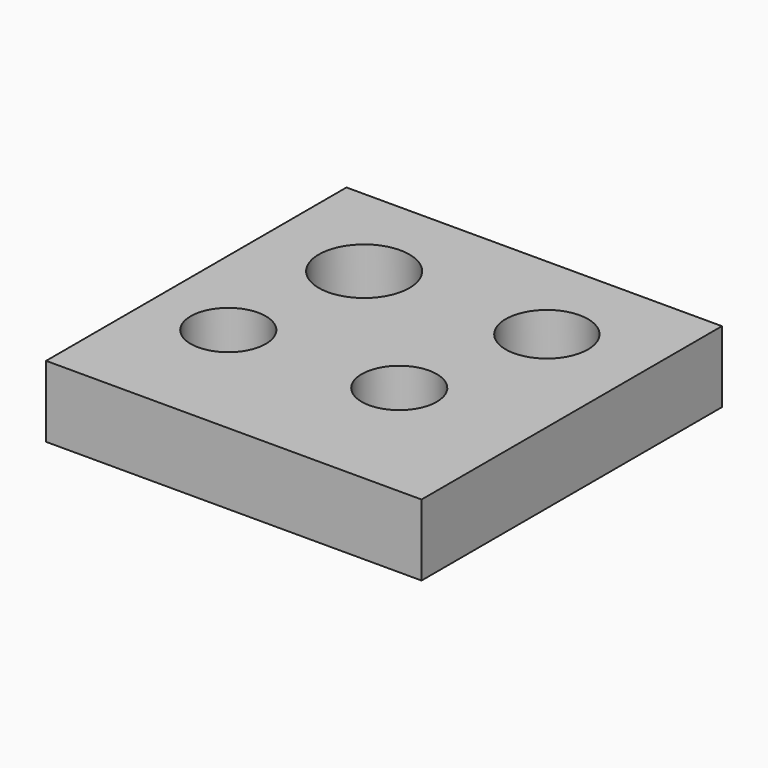
from build123d import *

# Parameters (mm, degrees)
F0_W     = 100
F0_H     = 100
F1_DEPTH = 19
F2_R     = 12.081431
F3_DEPTH = 19
F4_R     = 10.963325
F5_DEPTH = 19
F6_R     = 10
F7_DEPTH = 19


with BuildPart() as f1:
    # F0 (on Top) → F1 (new body)
    with BuildSketch(Plane.XY):
        with Locations((-35.732688, -12.833619)):
            Rectangle(F0_W, F0_H)
    extrude(amount=F1_DEPTH)

    # F2 (on face) → F3 (cut)
    with BuildSketch(Plane.XY.offset(19)):
        with Locations((-59.289314, 9.998217)):
            Circle(F2_R)
    extrude(amount=-F3_DEPTH, mode=Mode.SUBTRACT)

    # F4 (on face) → F5 (cut)
    with BuildSketch(Plane.XY.offset(19)):
        with Locations((-11.882036, 11.570971)):
            Circle(F4_R)
    extrude(amount=-F5_DEPTH, mode=Mode.SUBTRACT)

    # F6 (on face) → F7 (cut)
    with BuildSketch(Plane.XY.offset(19)):
        with Locations((-64.806127, -28.333058)):
            Circle(F6_R)
        with Locations((-20.744683, -26.488627)):
            Circle(F6_R)
    extrude(amount=-F7_DEPTH, mode=Mode.SUBTRACT)


solid = f1.part
